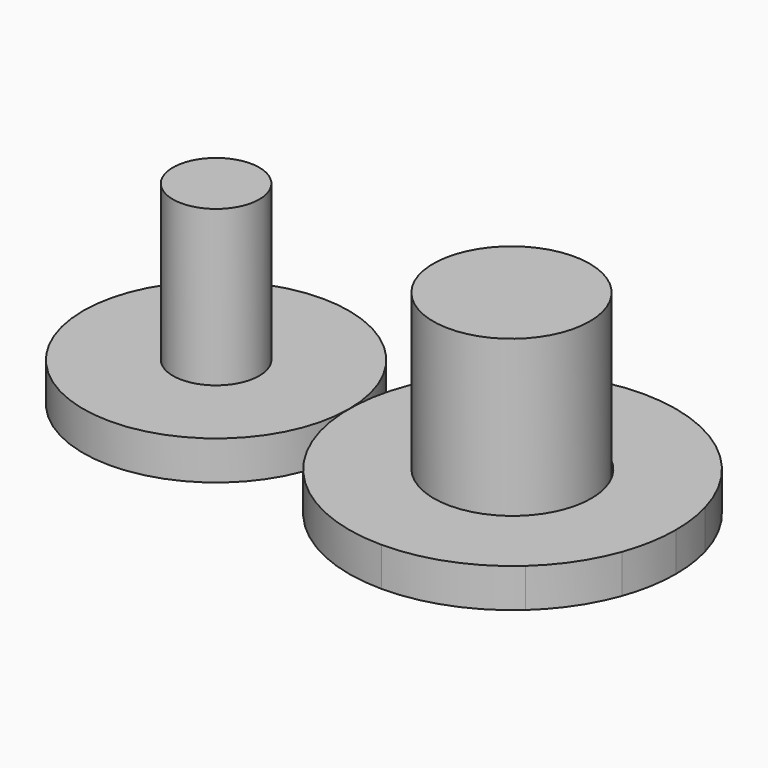
from build123d import *

# Parameters (mm, degrees)
F0_R     = 34.2310248754
F0_R_2   = 11.1062371849
F1_DEPTH = 10
F2_R     = 11.1200511456
F3_DEPTH = 50
F2_R_2   = 20.1404233558


with BuildPart() as f1:
    # F0 (on Top) → F1 (new body)
    with BuildSketch(Plane.XY):
        Circle(F0_R)
        Circle(F0_R_2, mode=Mode.SUBTRACT)
        Circle(F0_R)
        Circle(F0_R_2, mode=Mode.SUBTRACT)
    extrude(amount=F1_DEPTH)


with BuildPart() as f1b:
    # F0 (on Top) → F1, piece 2 (new body)
    with BuildSketch(Plane.XY):
        with BuildLine():
            Line((56.0789567465, 0), (34.2310248754, 0))
            ThreePointArc((34.2310248754, 0), (46.5656859572, -29.7785060709), (76.344192028, -42.1131671526))
            Line((76.344192028, -42.1131671526), (76.344192028, -20.2652352815))
            ThreePointArc((76.344192028, -20.2652352815), (62.0145067381, -14.3296852899), (56.0789567465, 0))
        make_face()
        with BuildLine():
            ThreePointArc((46.4935230312, 29.7061678455), (37.4171765972, 16.0687994969), (34.2310248754, 0))
            Line((34.2310248754, 0), (56.0789567465, 0))
            ThreePointArc((56.0789567465, 0), (57.6121616477, 7.7324510246), (61.9797812883, 14.2948754845))
            Line((61.9797812883, 14.2948754845), (46.4935230312, 29.7061678455))
        make_face()
        with BuildLine():
            Line((76.344192028, -20.2652352815), (76.344192028, -42.1131671526))
            ThreePointArc((76.344192028, -42.1131671526), (91.5012663794, -39.2909906306), (104.6268649587, -31.2027123744))
            Line((104.6268649587, -31.2027123744), (89.9540689403, -15.0150261888))
            ThreePointArc((89.9540689403, -15.0150261888), (83.6379127021, -18.9071785242), (76.344192028, -20.2652352815))
        make_face()
        with BuildLine():
            ThreePointArc((91.2459690531, 39.3885248406), (67.4388929292, 41.1608369155), (46.4935230312, 29.7061678455))
            Line((46.4935230312, 29.7061678455), (61.9797812883, 14.2948754845))
            ThreePointArc((61.9797812883, 14.2948754845), (72.0588819055, 19.8069653953), (83.5150613296, 18.9541128644))
            Line((83.5150613296, 18.9541128644), (91.2459690531, 39.3885248406))
        make_face()
        with BuildLine():
            Line((89.9540689403, -15.0150261888), (104.6268649587, -31.2027123744))
            ThreePointArc((104.6268649587, -31.2027123744), (111.3181360131, -23.4593710434), (115.9440742914, -14.330672432))
            Line((115.9440742914, -14.330672432), (95.4000119876, -6.8960486283))
            ThreePointArc((95.4000119876, -6.8960486283), (93.1739688295, -11.2888606081), (89.9540689403, -15.0150261888))
        make_face()
        with BuildLine():
            ThreePointArc((116.9533938564, 11.1539936563), (107.4836265302, 28.3523273561), (91.2459690531, 39.3885248406))
            Line((91.2459690531, 39.3885248406), (83.5150613296, 18.9541128644))
            ThreePointArc((83.5150613296, 18.9541128644), (91.3287683349, 13.643395249), (95.8857056517, 5.3674021941))
            Line((95.8857056517, 5.3674021941), (116.9533938564, 11.1539936563))
        make_face()
        with BuildLine():
            Line((95.4000119876, -6.8960486283), (115.9440742914, -14.330672432))
            ThreePointArc((115.9440742914, -14.330672432), (117.8242794713, -7.274695411), (118.4573591807, 0))
            ThreePointArc((118.4573591807, 0), (118.0796742474, 5.6274658191), (116.9533938564, 11.1539936563))
            Line((116.9533938564, 11.1539936563), (95.8857056517, 5.3674021941))
            ThreePointArc((95.8857056517, 5.3674021941), (96.4276819185, 2.70798723), (96.6094273096, 0))
            ThreePointArc((96.6094273096, 0), (96.3047836523, -3.5006489436), (95.4000119876, -6.8960486283))
        make_face()
    extrude(amount=F1_DEPTH)


with BuildPart() as f3:
    # F2 (on Top) → F3 (new body)
    with BuildSketch(Plane.XY):
        Circle(F2_R)
    extrude(amount=F3_DEPTH)


with BuildPart() as f3b:
    # F2 (on Top) → F3, piece 2 (new body)
    with BuildSketch(Plane.XY):
        with Locations((76.0679244995, 0)):
            Circle(F2_R_2)
    extrude(amount=F3_DEPTH)


solid = Compound([f1.part, f1b.part, f3.part, f3b.part])
